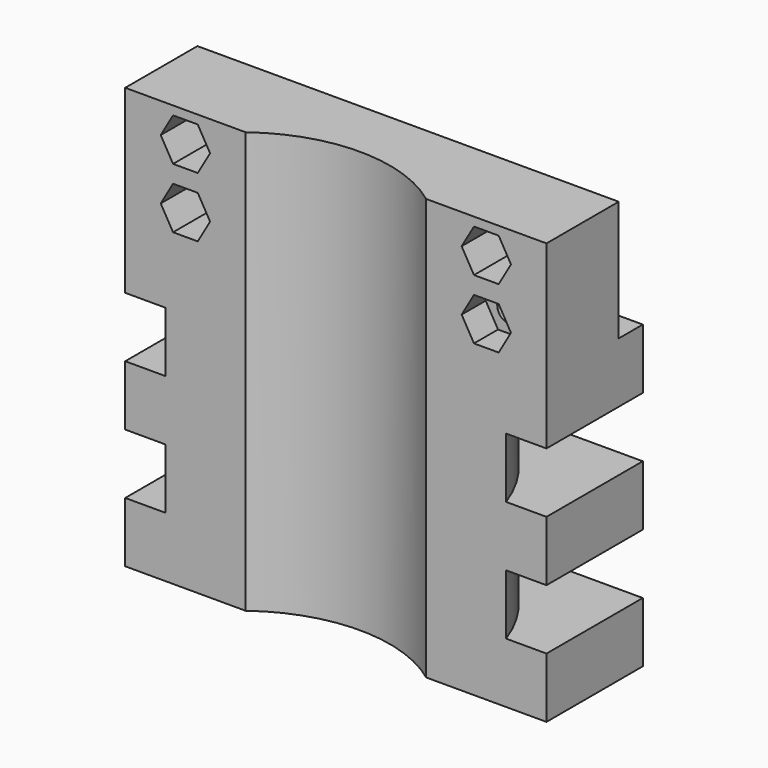
from build123d import *

# Parameters (mm, degrees)
CYLINDER022_R                 = 25
CYLINDER022_DEPTH             = 80
CYLINDER024_R                 = 30
CYLINDER024_DEPTH             = 11
CYLINDER023_R                 = 60
CYLINDER023_DEPTH             = 10
CYLINDER026_R                 = 30
CYLINDER026_DEPTH             = 11
CYLINDER025_R                 = 60
CYLINDER025_DEPTH             = 10
PRISM098_DEPTH                = 30
PRISM098_ROLL_ANGLE           = 90
PRISM099_DEPTH                = 10
PRISM099_ROLL_ANGLE           = 90
PRISM100_DEPTH                = 30
PRISM100_ROLL_ANGLE           = 90
PRISM101_DEPTH                = 15
PRISM101_ROLL_ANGLE           = 90
PRISM102_DEPTH                = 30
PRISM102_ROLL_ANGLE           = 90
PRISM103_DEPTH                = 15
PRISM103_ROLL_ANGLE           = 90
PRISM104_DEPTH                = 30
PRISM104_ROLL_ANGLE           = 90
PRISM105_DEPTH                = 15
PRISM105_ROLL_ANGLE           = 90
CUBE094_W                     = 70
CUBE094_H                     = 10
CUBE094_DEPTH                 = 20
CUBE093_W                     = 70
CUBE093_H                     = 20
CUBE093_DEPTH                 = 70
DIFFERENCE058_PLACEMENT_ANGLE = 180


with BuildPart() as cylinder022:
    # cylinder022 → cylinder022 (new body)
    with BuildSketch(Plane(origin=(0, 30, -40), x_dir=(1, 0, 0), z_dir=(0, 0, 1))):
        Circle(CYLINDER022_R)
    extrude(amount=CYLINDER022_DEPTH)


with BuildPart() as cylinder024:
    # cylinder024 → cylinder024 (new body)
    with BuildSketch(Plane(origin=(0, 20, -5.5), x_dir=(1, 0, 0), z_dir=(0, 0, 1))):
        Circle(CYLINDER024_R)
    extrude(amount=CYLINDER024_DEPTH)


with BuildPart() as difference056:
    # cylinder023 → cylinder023 (new body)
    with BuildSketch(Plane(origin=(0, 20, -5), x_dir=(1, 0, 0), z_dir=(0, 0, 1))):
        Circle(CYLINDER023_R)
    extrude(amount=CYLINDER023_DEPTH)

    # difference056: cut cylinder024
    add(cylinder024.part, mode=Mode.SUBTRACT)


with BuildPart() as cylinder026:
    # cylinder026 → cylinder026 (new body)
    with BuildSketch(Plane(origin=(0, 20, 14.5), x_dir=(1, 0, 0), z_dir=(0, 0, 1))):
        Circle(CYLINDER026_R)
    extrude(amount=CYLINDER026_DEPTH)


with BuildPart() as difference057:
    # cylinder025 → cylinder025 (new body)
    with BuildSketch(Plane(origin=(0, 20, 15), x_dir=(1, 0, 0), z_dir=(0, 0, 1))):
        Circle(CYLINDER025_R)
    extrude(amount=CYLINDER025_DEPTH)

    # difference057: cut cylinder026
    add(cylinder026.part, mode=Mode.SUBTRACT)


with BuildPart() as prism098:
    # prism098 → prism098 (new body)
    with BuildSketch(Plane.XY):
        Polygon((2.2, 0), (2.092324, 0.679837), (1.779837, 1.293128), (1.293128, 1.779837), (0.679837, 2.092324), (0, 2.2), (-0.679837, 2.092324), (-1.293128, 1.779837), (-1.779837, 1.293128), (-2.092324, 0.679837), (-2.2, 0), (-2.092324, -0.679837), (-1.779837, -1.293128), (-1.293128, -1.779837), (-0.679837, -2.092324), (0, -2.2), (0.679837, -2.092324), (1.293128, -1.779837), (1.779837, -1.293128), (2.092324, -0.679837), align=None)
    extrude(amount=PRISM098_DEPTH)


with BuildPart() as prism098_1:
    # prism098 roll: moved
    add(prism098.part.rotate(Axis((0, 0, 0), (1, 0, 0)), PRISM098_ROLL_ANGLE))


with BuildPart() as prism098_2:
    # prism098 placement: moved
    add(prism098_1.part.moved(Location((25, 15, -20))))


with BuildPart() as prism099:
    # prism099 → prism099 (new body)
    with BuildSketch(Plane.XY):
        Polygon((4.1, 0), (2.05, 3.550704), (-2.05, 3.550704), (-4.1, 0), (-2.05, -3.550704), (2.05, -3.550704), align=None)
    extrude(amount=PRISM099_DEPTH)


with BuildPart() as prism099_1:
    # prism099 roll: moved
    add(prism099.part.rotate(Axis((0, 0, 0), (1, 0, 0)), PRISM099_ROLL_ANGLE))


with BuildPart() as prism099_2:
    # prism099 placement: moved
    add(prism099_1.part.moved(Location((25, 15, -20))))


with BuildPart() as prism100:
    # prism100 → prism100 (new body)
    with BuildSketch(Plane.XY):
        Polygon((2.2, 0), (2.092324, 0.679837), (1.779837, 1.293128), (1.293128, 1.779837), (0.679837, 2.092324), (0, 2.2), (-0.679837, 2.092324), (-1.293128, 1.779837), (-1.779837, 1.293128), (-2.092324, 0.679837), (-2.2, 0), (-2.092324, -0.679837), (-1.779837, -1.293128), (-1.293128, -1.779837), (-0.679837, -2.092324), (0, -2.2), (0.679837, -2.092324), (1.293128, -1.779837), (1.779837, -1.293128), (2.092324, -0.679837), align=None)
    extrude(amount=PRISM100_DEPTH)


with BuildPart() as prism100_1:
    # prism100 roll: moved
    add(prism100.part.rotate(Axis((0, 0, 0), (1, 0, 0)), PRISM100_ROLL_ANGLE))


with BuildPart() as prism100_2:
    # prism100 placement: moved
    add(prism100_1.part.moved(Location((25, 15, -30))))


with BuildPart() as prism101:
    # prism101 → prism101 (new body)
    with BuildSketch(Plane.XY):
        Polygon((4.1, 0), (2.05, 3.550704), (-2.05, 3.550704), (-4.1, 0), (-2.05, -3.550704), (2.05, -3.550704), align=None)
    extrude(amount=PRISM101_DEPTH)


with BuildPart() as prism101_1:
    # prism101 roll: moved
    add(prism101.part.rotate(Axis((0, 0, 0), (1, 0, 0)), PRISM101_ROLL_ANGLE))


with BuildPart() as prism101_2:
    # prism101 placement: moved
    add(prism101_1.part.moved(Location((25, 17.5, -30))))


with BuildPart() as prism102:
    # prism102 → prism102 (new body)
    with BuildSketch(Plane.XY):
        Polygon((2.2, 0), (2.092324, 0.679837), (1.779837, 1.293128), (1.293128, 1.779837), (0.679837, 2.092324), (0, 2.2), (-0.679837, 2.092324), (-1.293128, 1.779837), (-1.779837, 1.293128), (-2.092324, 0.679837), (-2.2, 0), (-2.092324, -0.679837), (-1.779837, -1.293128), (-1.293128, -1.779837), (-0.679837, -2.092324), (0, -2.2), (0.679837, -2.092324), (1.293128, -1.779837), (1.779837, -1.293128), (2.092324, -0.679837), align=None)
    extrude(amount=PRISM102_DEPTH)


with BuildPart() as prism102_1:
    # prism102 roll: moved
    add(prism102.part.rotate(Axis((0, 0, 0), (1, 0, 0)), PRISM102_ROLL_ANGLE))


with BuildPart() as prism102_2:
    # prism102 placement: moved
    add(prism102_1.part.moved(Location((-25, 15, -20))))


with BuildPart() as prism103:
    # prism103 → prism103 (new body)
    with BuildSketch(Plane.XY):
        Polygon((4.1, 0), (2.05, 3.550704), (-2.05, 3.550704), (-4.1, 0), (-2.05, -3.550704), (2.05, -3.550704), align=None)
    extrude(amount=PRISM103_DEPTH)


with BuildPart() as prism103_1:
    # prism103 roll: moved
    add(prism103.part.rotate(Axis((0, 0, 0), (1, 0, 0)), PRISM103_ROLL_ANGLE))


with BuildPart() as prism103_2:
    # prism103 placement: moved
    add(prism103_1.part.moved(Location((-25, 17.5, -20))))


with BuildPart() as prism104:
    # prism104 → prism104 (new body)
    with BuildSketch(Plane.XY):
        Polygon((2.2, 0), (2.092324, 0.679837), (1.779837, 1.293128), (1.293128, 1.779837), (0.679837, 2.092324), (0, 2.2), (-0.679837, 2.092324), (-1.293128, 1.779837), (-1.779837, 1.293128), (-2.092324, 0.679837), (-2.2, 0), (-2.092324, -0.679837), (-1.779837, -1.293128), (-1.293128, -1.779837), (-0.679837, -2.092324), (0, -2.2), (0.679837, -2.092324), (1.293128, -1.779837), (1.779837, -1.293128), (2.092324, -0.679837), align=None)
    extrude(amount=PRISM104_DEPTH)


with BuildPart() as prism104_1:
    # prism104 roll: moved
    add(prism104.part.rotate(Axis((0, 0, 0), (1, 0, 0)), PRISM104_ROLL_ANGLE))


with BuildPart() as prism104_2:
    # prism104 placement: moved
    add(prism104_1.part.moved(Location((-25, 15, -30))))


with BuildPart() as prism105:
    # prism105 → prism105 (new body)
    with BuildSketch(Plane.XY):
        Polygon((4.1, 0), (2.05, 3.550704), (-2.05, 3.550704), (-4.1, 0), (-2.05, -3.550704), (2.05, -3.550704), align=None)
    extrude(amount=PRISM105_DEPTH)


with BuildPart() as prism105_1:
    # prism105 roll: moved
    add(prism105.part.rotate(Axis((0, 0, 0), (1, 0, 0)), PRISM105_ROLL_ANGLE))


with BuildPart() as prism105_2:
    # prism105 placement: moved
    add(prism105_1.part.moved(Location((-25, 17.5, -30))))


with BuildPart() as union045:
    # cube094 → cube094 (new body)
    with BuildSketch(Plane(origin=(-35, -15, -35), x_dir=(1, 0, 0), z_dir=(0, 0, 1))):
        with Locations((35, 5)):
            Rectangle(CUBE094_W, CUBE094_H)
    extrude(amount=CUBE094_DEPTH)

    # union045: union cylinder022, difference056, difference057, prism098, prism099, prism100, prism101, prism102, prism103, prism104, prism105
    add(cylinder022.part)
    add(difference056.part)
    add(difference057.part)
    add(prism098_2.part)
    add(prism099_2.part)
    add(prism100_2.part)
    add(prism101_2.part)
    add(prism102_2.part)
    add(prism103_2.part)
    add(prism104_2.part)
    add(prism105_2.part)


with BuildPart() as tool_holder:
    # cube093 → cube093 (new body)
    with BuildSketch(Plane(origin=(-35, -10, -35), x_dir=(1, 0, 0), z_dir=(0, 0, 1))):
        with Locations((35, 10)):
            Rectangle(CUBE093_W, CUBE093_H)
    extrude(amount=CUBE093_DEPTH)

    # difference058: cut union045
    add(union045.part, mode=Mode.SUBTRACT)


with BuildPart() as tool_holder_1:
    # difference058 placement: moved
    add(tool_holder.part.moved(Location((238, 200, 242))).rotate(Axis((238, 200, 242), (1, 0, 0)), DIFFERENCE058_PLACEMENT_ANGLE))


solid = tool_holder_1.part
